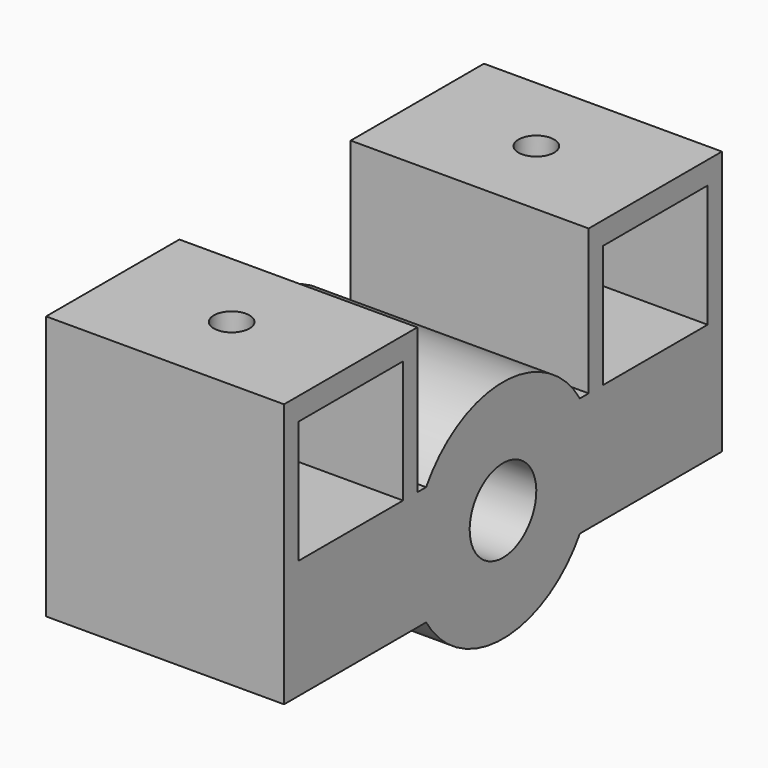
from build123d import *

# Parameters (mm, degrees)
CYLINDER097_R     = 3.5
CYLINDER097_DEPTH = 4
CYLINDER098_R     = 1.5
CYLINDER098_DEPTH = 25
CYLINDER096_R     = 3.5
CYLINDER096_DEPTH = 4
CYLINDER095_R     = 1.5
CYLINDER095_DEPTH = 25
CYLINDER093_R     = 3.5
CYLINDER093_DEPTH = 20
BOX030_W          = 20
BOX030_H          = 11
BOX030_DEPTH      = 10.3
BOX029_W          = 20
BOX029_H          = 11
BOX029_DEPTH      = 10.3
BOX027_W          = 20
BOX027_H          = 14
BOX027_DEPTH      = 12.2
BOX028_W          = 20
BOX028_H          = 14
BOX028_DEPTH      = 12.2
BOX026_W          = 20
BOX026_H          = 46
BOX026_DEPTH      = 10
CYLINDER094_R     = 9.5
CYLINDER094_DEPTH = 20


with BuildPart() as zylinder094:
    # Cylinder097 → Cylinder097 (new body)
    with BuildSketch(Plane.XY):
        Circle(CYLINDER097_R)
    extrude(amount=CYLINDER097_DEPTH)


with BuildPart() as fusion034:
    # Cylinder098 → Cylinder098 (new body)
    with BuildSketch(Plane.XY):
        Circle(CYLINDER098_R)
    extrude(amount=CYLINDER098_DEPTH)

    # Fusion034: union Zylinder094
    add(zylinder094.part)


with BuildPart() as fusion034_1:
    # Fusion034 placement: moved
    add(fusion034.part.moved(Location((-13, 16, 58))))


with BuildPart() as zylinder093:
    # Cylinder096 → Cylinder096 (new body)
    with BuildSketch(Plane.XY):
        Circle(CYLINDER096_R)
    extrude(amount=CYLINDER096_DEPTH)


with BuildPart() as fusion035:
    # Cylinder095 → Cylinder095 (new body)
    with BuildSketch(Plane.XY):
        Circle(CYLINDER095_R)
    extrude(amount=CYLINDER095_DEPTH)

    # Fusion033: union Zylinder093
    add(zylinder093.part)


with BuildPart() as fusion035_1:
    # Fusion033 placement: moved
    add(fusion035.part.moved(Location((-13, -16, 58))))

    # Fusion035: union Fusion034
    add(fusion034_1.part)


with BuildPart() as zylinder090:
    # Cylinder093 → Cylinder093 (new body)
    with BuildSketch(Plane(origin=(-23, 0, 63), x_dir=(0, 0, -1), z_dir=(1, 0, 0))):
        Circle(CYLINDER093_R)
    extrude(amount=CYLINDER093_DEPTH)


with BuildPart() as obj1:
    # Box030 → Box030 (new body)
    with BuildSketch(Plane(origin=(-23, -21.5, 68), x_dir=(1, 0, 0), z_dir=(0, 0, 1))):
        with Locations((10, 5.5)):
            Rectangle(BOX030_W, BOX030_H)
    extrude(amount=BOX030_DEPTH)


with BuildPart() as fusion030:
    # Box029 → Box029 (new body)
    with BuildSketch(Plane(origin=(-23, 10.5, 68), x_dir=(1, 0, 0), z_dir=(0, 0, 1))):
        with Locations((10, 5.5)):
            Rectangle(BOX029_W, BOX029_H)
    extrude(amount=BOX029_DEPTH)

    # Fusion030: union obj1
    add(obj1.part)


with BuildPart() as obj2:
    # Box027 → Box027 (new body)
    with BuildSketch(Plane(origin=(-23, 9, 68), x_dir=(1, 0, 0), z_dir=(0, 0, 1))):
        with Locations((10, 7)):
            Rectangle(BOX027_W, BOX027_H)
    extrude(amount=BOX027_DEPTH)


with BuildPart() as cut047:
    # Box028 → Box028 (new body)
    with BuildSketch(Plane(origin=(-23, -23, 68), x_dir=(1, 0, 0), z_dir=(0, 0, 1))):
        with Locations((10, 7)):
            Rectangle(BOX028_W, BOX028_H)
    extrude(amount=BOX028_DEPTH)

    # Fusion029: union obj2
    add(obj2.part)

    # Cut047: cut Fusion030
    add(fusion030.part, mode=Mode.SUBTRACT)


with BuildPart() as fusion031:
    # Box026 → Box026 (new body)
    with BuildSketch(Plane(origin=(-23, -23, 58), x_dir=(1, 0, 0), z_dir=(0, 0, 1))):
        with Locations((10, 23)):
            Rectangle(BOX026_W, BOX026_H)
    extrude(amount=BOX026_DEPTH)

    # Fusion031: union Cut047
    add(cut047.part)


with BuildPart() as belt_tensioner:
    # Cylinder094 → Cylinder094 (new body)
    with BuildSketch(Plane(origin=(-23, 0, 63), x_dir=(0, 0, -1), z_dir=(1, 0, 0))):
        Circle(CYLINDER094_R)
    extrude(amount=CYLINDER094_DEPTH)

    # Fusion032: union Fusion031
    add(fusion031.part)

    # Cut048: cut Zylinder090
    add(zylinder090.part, mode=Mode.SUBTRACT)

    # Cut049: cut Fusion035
    add(fusion035_1.part, mode=Mode.SUBTRACT)


solid = belt_tensioner.part
